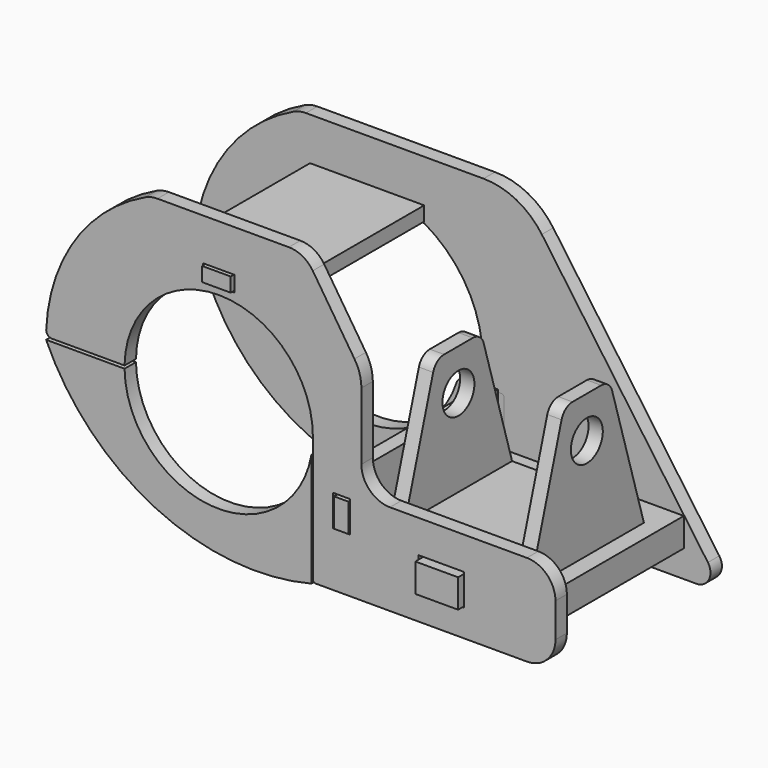
from build123d import *

# Parameters (mm, degrees)
F0_W      = 16
F0_H      = 11
F1_DEPTH  = 5
F3_DEPTH  = 5
F4_W      = 15
F4_H      = 7
F5_DEPTH  = 10
F7_DEPTH  = 50
F8_R      = 7
F9_DEPTH  = 602
F10_W     = 16
F10_H     = 11
F10_W_2   = 6
F10_W_3   = 11
F10_H_2   = 5.5
F11_DEPTH = 5
F12_W     = 10
F12_H     = 6
F13_DEPTH = 5
F14_W     = 6
F14_H     = 10
F15_DEPTH = 5


with BuildPart() as f1:
    # F0 (on Front) → F1 (new body)
    with BuildSketch(Plane.XZ):
        with BuildLine():
            ThreePointArc((-40.5, 0), (-35.0017856687, 20.3746165608), (-20, 35.2171833059))
            Line((-20, 35.2171833059), (-5.5, 35.2171833059))
            Line((-5.5, 35.2171833059), (-5.5, 40.7171833059))
            Line((-5.5, 40.7171833059), (5.5, 40.7171833059))
            Line((5.5, 40.7171833059), (5.5, 35.2171833059))
            Line((5.5, 35.2171833059), (20, 35.2171833059))
            ThreePointArc((20, 35.2171833059), (35.0017856687, 20.3746165608), (40.5, 0))
            Line((40.5, 0), (40.5, -15))
            Line((40.5, -15), (46, -15))
            Line((46, -15), (46, -26))
            Line((46, -26), (40.5, -26))
            Line((40.5, -26), (40.5, -45))
            Line((40.5, -45), (115.3384250636, -45))
            ThreePointArc((115.3384250636, -45), (119.7790192257, -42.2980695132), (119.4203426893, -37.1124493949))
            Line((119.4203426893, -37.1124493949), (61.2243521745, 45.1549363311))
            ThreePointArc((61.2243521745, 45.1549363311), (52.3051116117, 52.9201541165), (40.8147640458, 55.7171833059))
            Line((40.8147640458, 55.7171833059), (-21.4520197319, 55.7171833059))
            ThreePointArc((-21.4520197319, 55.7171833059), (-23.6281314187, 55.477538726), (-25.6999444312, 54.7700908912))
            ThreePointArc((-25.6999444312, 54.7700908912), (-50.7896959548, 32.8733445944), (-60.4914548022, 1.0168067227))
            ThreePointArc((-60.4914548022, 1.0168067227), (-60.2046201411, 0.2988604713), (-59.4915960452, 0))
            Line((-59.4915960452, 0), (-40.5, 0))
        make_face()
        with Locations((78, -30)):
            Rectangle(F0_W, F0_H, mode=Mode.SUBTRACT)
    extrude(amount=F1_DEPTH)


with BuildPart() as f3:
    # F2 (on Front) → F3 (new body)
    with BuildSketch(Plane.XZ):
        with BuildLine():
            ThreePointArc((31.3633663202, -10.2634912709), (-0.7048926371, -32.9924707527), (-31.7731104155, -8.9145641802))
            ThreePointArc((-31.7731104155, -8.9145641802), (-31.9077359339, -8.5477633127), (-32.0978693881, -8.2064186537))
            Line((-32.0978693881, -8.2064186537), (-42.5333240792, 7.5))
            Line((-42.5333240792, 7.5), (-58.8162039998, 7.5))
            ThreePointArc((-58.8162039998, 7.5), (-59.5916175254, 7.1314537705), (-59.7954795887, 6.2974677287))
            ThreePointArc((-59.7954795887, 6.2974677287), (-18.0031476506, -44.5111244838), (47.5402409783, -38.8387124322))
            ThreePointArc((47.5402409783, -38.8387124322), (47.8775650911, -38.4766595898), (48, -37.9972020725))
            Line((48, -37.9972020725), (48, -9.5410284884))
            ThreePointArc((48, -9.5410284884), (47.7071067812, -8.8339217072), (47, -8.5410284884))
            Line((47, -8.5410284884), (33.7393789202, -8.5410284884))
            ThreePointArc((33.7393789202, -8.5410284884), (32.2720417135, -9.016943134), (31.3633663202, -10.2634912709))
        make_face()
    extrude(amount=F3_DEPTH)


with BuildPart() as f5:
    # F4 (on face) → F5 (new body)
    with BuildSketch(Plane.XY.offset(-35.5)):
        Polygon((70.5, -5), (46.5, -5), (46.5, -65), (70.5, -65), (85.5, -65), (111, -65), (111, -5), (85.5, -5), align=None)
        with Locations((78, -1.5)):
            Rectangle(F4_W, F4_H)
        with Locations((78, -68.5)):
            Rectangle(F4_W, F4_H)
    extrude(amount=F5_DEPTH)


with BuildPart() as f7:
    # F6 (on face) → F7 (new body)
    with BuildSketch(Plane.XZ.offset(65)):
        Polygon((60, -20.5), (60, 24.5), (55, 24.5), (55, -25.5), (105, -25.5), (105, 24.5), (100, 24.5), (100, -20.5), align=None)
    extrude(amount=-F7_DEPTH)

    # F8 (on face) → F9 (cut)
    with BuildSketch(Plane.YZ.offset(105)):
        with Locations((-40, 10)):
            Circle(F8_R)
        with BuildLine():
            Line((-15, 24.5), (-33.7201532545, 24.5))
            ThreePointArc((-33.7201532545, 24.5), (-30.7355006063, 23.5114646414), (-28.9310218283, 20.9367394278))
            Line((-28.9310218283, 20.9367394278), (-15, -25.5))
            Line((-15, -25.5), (-15, 24.5))
        make_face()
        with BuildLine():
            ThreePointArc((-51.0689781717, 20.9367394278), (-49.2644993937, 23.5114646414), (-46.2798467455, 24.5))
            Line((-46.2798467455, 24.5), (-65, 24.5))
            Line((-65, 24.5), (-65, -25.5))
            Line((-65, -25.5), (-51.0689781717, 20.9367394278))
        make_face()
    extrude(amount=-F9_DEPTH, mode=Mode.SUBTRACT)


with BuildPart() as f11:
    # F10 (on face) → F11 (new body)
    with BuildSketch(Plane.XZ.offset(65)):
        with BuildLine():
            ThreePointArc((-32.9962119038, 0.5), (0.2500071747, 32.9990529624), (33, 0))
            Line((33, 0), (33, -44))
            ThreePointArc((33, -44), (33.2928932188, -44.7071067812), (34, -45))
            Line((34, -45), (108, -45))
            ThreePointArc((108, -45), (115.0710678119, -42.0710678119), (118, -35))
            Line((118, -35), (118, -23))
            ThreePointArc((118, -23), (115.0710678119, -15.9289321881), (108, -13))
            Line((108, -13), (60, -13))
            ThreePointArc((60, -13), (52.9289321881, -10.0710678119), (50, -3))
            Line((50, -3), (50, 0.018009717))
            Line((50, 0.018009717), (50, 20.5470842988))
            ThreePointArc((50, 20.5470842988), (49.3797577347, 24.8158742319), (47.5703243343, 28.7316396398))
            Line((47.5703243343, 28.7316396398), (32.9583635501, 51.1735535332))
            ThreePointArc((32.9583635501, 51.1735535332), (29.3445032584, 54.5081929826), (24.5781473272, 55.7171833059))
            Line((24.5781473272, 55.7171833059), (-21.4479659412, 55.7171833059))
            ThreePointArc((-21.4479659412, 55.7171833059), (-23.6237229696, 55.4776177918), (-25.6952327278, 54.7703995766))
            ThreePointArc((-25.6952327278, 54.7703995766), (-50.3563868625, 33.5302245275), (-60.4430060978, 2.5854726013))
            ThreePointArc((-60.4430060978, 2.5854726013), (-59.8889498708, 1.116335518), (-58.4448333239, 0.5))
            Line((-58.4448333239, 0.5), (-32.9962119038, 0.5))
        make_face()
        with Locations((78, -30)):
            Rectangle(F10_W, F10_H, mode=Mode.SUBTRACT)
        with Locations((43, -20.5)):
            Rectangle(F10_W_2, F10_H, mode=Mode.SUBTRACT)
        with Locations((0, 38.25)):
            Rectangle(F10_W_3, F10_H_2, mode=Mode.SUBTRACT)
    extrude(amount=F11_DEPTH)


with BuildPart() as f11b:
    # F10 (on face) → F11, piece 2 (new body)
    with BuildSketch(Plane.XZ.offset(65)):
        with BuildLine():
            ThreePointArc((32.5, -5.7227615711), (-2.6231405167, -32.8955792445), (-32.9962119038, -0.5))
            Line((-32.9962119038, -0.5), (-60.4962119038, -0.5))
            ThreePointArc((-60.4962119038, -0.5), (-22.1847321825, -39.9183383937), (32.5, -45.5))
            Line((32.5, -45.5), (32.5, -5.7227615711))
        make_face()
    extrude(amount=F11_DEPTH)


with BuildPart() as f13:
    # F12 (on face) → F13 (new body)
    with BuildSketch(Plane(origin=(0, 0, 40.7171833059), x_dir=(1, 0, 0), z_dir=(0, 0, -1))):
        Polygon((-20, 65), (-20, 5), (-5, 5), (5, 5), (20, 5), (20, 65), (5, 65), (-5, 65), align=None)
        with Locations((0, 2)):
            Rectangle(F12_W, F12_H)
        with Locations((0, 68)):
            Rectangle(F12_W, F12_H)
    extrude(amount=F13_DEPTH)


with BuildPart() as f15:
    # F14 (on face) → F15 (new body)
    with BuildSketch(Plane(origin=(46, 0, 0), x_dir=(0, -1, 0), z_dir=(-1, 0, 0))):
        Polygon((64.75, -7.5), (5.25, -7.5), (5.25, -15.5), (5.25, -25.5), (5.25, -42.5), (64.75, -42.5), (64.75, -26), (64.75, -25.5), (64.75, -15.5), align=None)
        with Locations((2.25, -20.5)):
            Rectangle(F14_W, F14_H)
        with Locations((67.75, -20.5)):
            Rectangle(F14_W, F14_H)
    extrude(amount=F15_DEPTH)


solid = Compound([f1.part, f3.part, f5.part, f7.part, f11.part, f11b.part, f13.part, f15.part])
